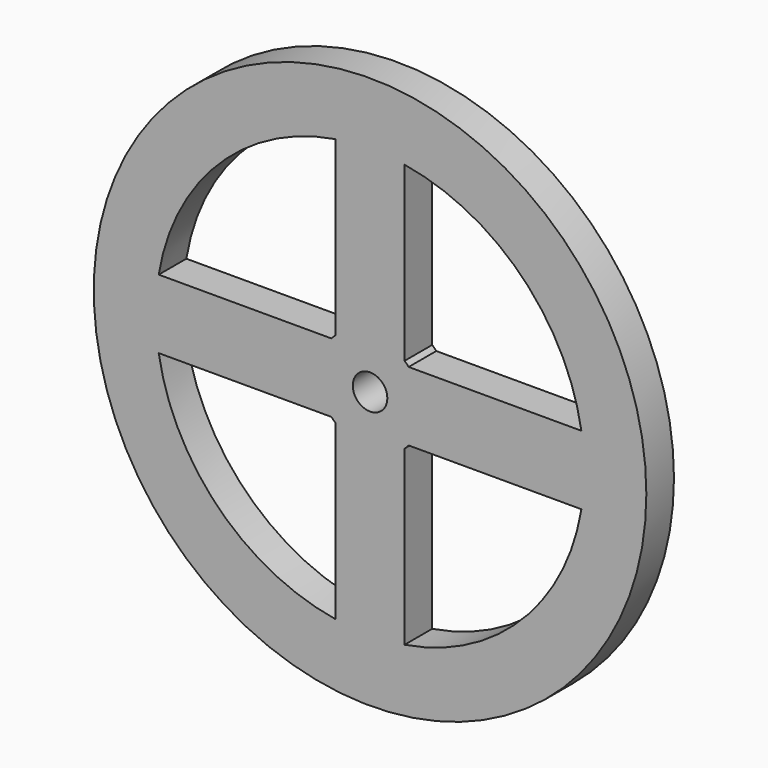
from build123d import *

# Parameters (mm, degrees)
F0_R     = 40
F0_R_2   = 2.5
F1_DEPTH = 5


with BuildPart() as f1:
    # F0 (on Front) → F1 (new body)
    with BuildSketch(Plane.XZ):
        Circle(F0_R)
        with BuildLine():
            ThreePointArc((-5, -30.594117), (-21.92031, -21.92031), (-30.594117, -5))
            Line((-30.594117, -5), (-5.59017, -5))
            ThreePointArc((-5.59017, -5), (-5.303301, -5.303301), (-5, -5.59017))
            Line((-5, -5.59017), (-5, -30.594117))
        make_face(mode=Mode.SUBTRACT)
        with BuildLine():
            ThreePointArc((5, -5.59017), (5.303301, -5.303301), (5.59017, -5))
            Line((5.59017, -5), (30.594117, -5))
            ThreePointArc((30.594117, -5), (21.92031, -21.92031), (5, -30.594117))
            Line((5, -30.594117), (5, -5.59017))
        make_face(mode=Mode.SUBTRACT)
        with BuildLine():
            ThreePointArc((-5, 5.59017), (-5.303301, 5.303301), (-5.59017, 5))
            Line((-5.59017, 5), (-30.594117, 5))
            ThreePointArc((-30.594117, 5), (-21.92031, 21.92031), (-5, 30.594117))
            Line((-5, 30.594117), (-5, 5.59017))
        make_face(mode=Mode.SUBTRACT)
        Circle(F0_R_2, mode=Mode.SUBTRACT)
        with BuildLine():
            Line((30.594117, 5), (5.59017, 5))
            ThreePointArc((5.59017, 5), (5.303301, 5.303301), (5, 5.59017))
            Line((5, 5.59017), (5, 30.594117))
            ThreePointArc((5, 30.594117), (21.92031, 21.92031), (30.594117, 5))
        make_face(mode=Mode.SUBTRACT)
    extrude(amount=F1_DEPTH)


solid = f1.part
